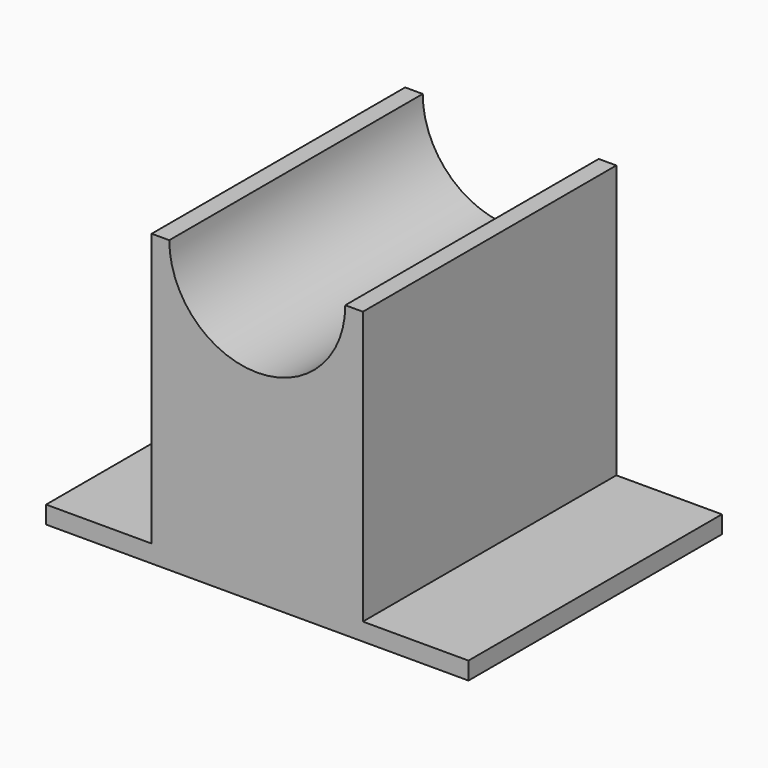
from build123d import *

# Parameters (mm, degrees)
F1_DEPTH = 114.3
F3_DEPTH = 114.3


with BuildPart() as f1:
    # F0 (on Front) → F1 (new body)
    with BuildSketch(Plane.XZ):
        Polygon((2.635991, 6.35), (2.635991, 0), (155.035991, 0), (155.035991, 6.35), (116.935991, 6.35), (116.935991, 104.775), (40.735991, 104.775), (40.735991, 6.35), align=None)
    extrude(amount=F1_DEPTH)

    # F2 (on face) → F3 (cut, through all)
    with BuildSketch(Plane.XZ.offset(114.3)):
        with BuildLine():
            Line((110.585991, 104.775), (47.085991, 104.775))
            ThreePointArc((47.085991, 104.775), (78.835991, 73.025), (110.585991, 104.775))
        make_face()
    extrude(amount=-F3_DEPTH, mode=Mode.SUBTRACT)


solid = f1.part
